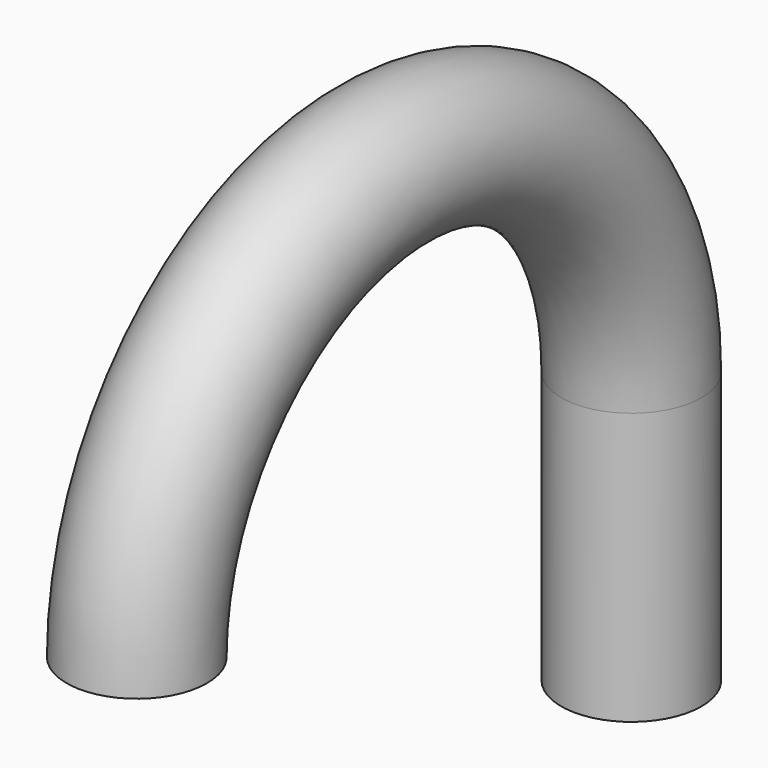
from build123d import *

# Parameters (mm, degrees)
F0_R = 7.952941
F3_R = 6.045586


with BuildPart() as f2:
    # F2: sweep along a path in F1
    with BuildLine(Plane.YZ) as f2_path:
        Line((0, 0), (0, 30.787257))
        ThreePointArc((0, 30.787257), (-35.027418, 65.814676), (-70.054837, 30.787257))
    # F0 (on Top) → F2 (sweep)
    with BuildSketch(Plane.XY):
        Circle(F0_R)
    sweep(path=f2_path.line)

    # F4: sweep along a path in F1
    with BuildLine(Plane.YZ) as f4_path:
        Line((0, 0), (0, 30.787257))
        ThreePointArc((0, 30.787257), (-35.027418, 65.814676), (-70.054837, 30.787257))
    # F3 (on Top) → F4 (sweep, cut)
    with BuildSketch(Plane.XY):
        Circle(F3_R)
    sweep(path=f4_path.line, mode=Mode.SUBTRACT)


solid = f2.part
